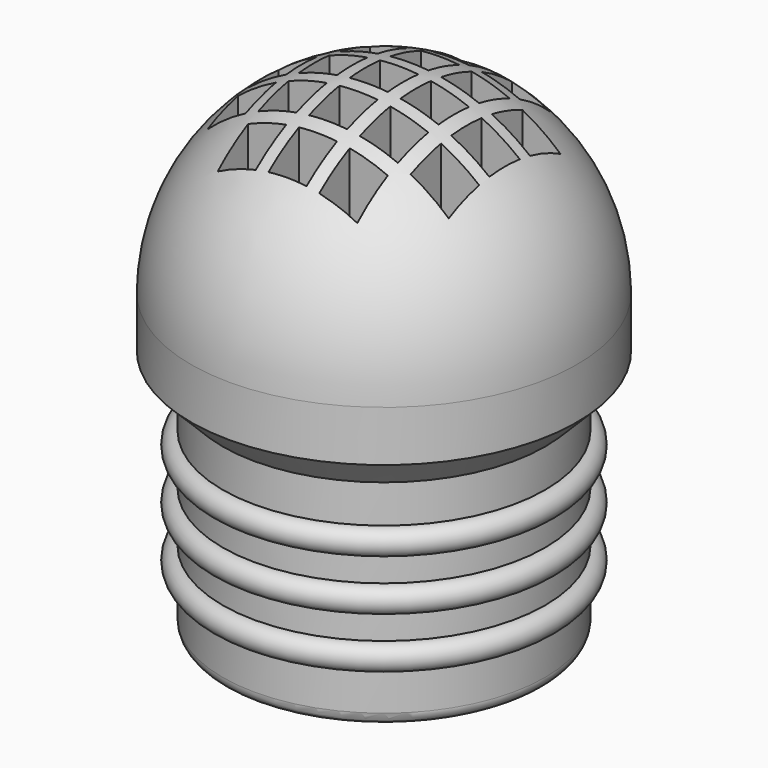
from build123d import *

# Parameters (mm, degrees)
F2_W     = 3
F2_H     = 3
F3_DEPTH = 50


with BuildPart() as f1:
    # F0 (on Right) → F1 (revolve)
    with BuildSketch(Plane.YZ):
        with BuildLine():
            Line((-11.7, 0), (0, 0))
            Line((0, 0), (0, 38.7))
            ThreePointArc((0, 38.7), (-10.748023074, 34.248023074), (-15.2, 23.5))
            Line((-15.2, 23.5), (-15.2, 19.5))
            Line((-15.2, 19.5), (-12.7, 17))
            Line((-12.7, 17), (-12.7, 14))
            ThreePointArc((-12.7, 14), (-13.7, 13), (-12.7, 12))
            Line((-12.7, 12), (-12.7, 10))
            ThreePointArc((-12.7, 10), (-13.7, 9), (-12.7, 8))
            Line((-12.7, 8), (-12.7, 6))
            ThreePointArc((-12.7, 6), (-13.7, 5), (-12.7, 4))
            Line((-12.7, 4), (-12.7, 1))
            ThreePointArc((-12.7, 1), (-12.4071067812, 0.2928932188), (-11.7, 0))
        make_face()
    revolve(axis=Axis((0, 0, 19.35), (0, 0, -1)))

    # F2 (on face) → F3 (cut)
    with BuildSketch(Plane(origin=(0, 0, 0), x_dir=(1, 0, 0), z_dir=(0, 0, -1))):
        with Locations((-8, -4)):
            Rectangle(F2_W, F2_H)
        with Locations((-8, 0)):
            Rectangle(F2_W, F2_H)
        with Locations((-8, 4)):
            Rectangle(F2_W, F2_H)
        with Locations((-4, -8)):
            Rectangle(F2_W, F2_H)
        with Locations((-4, -4)):
            Rectangle(F2_W, F2_H)
        with Locations((-4, 0)):
            Rectangle(F2_W, F2_H)
        with Locations((-4, 4)):
            Rectangle(F2_W, F2_H)
        with Locations((-4, 8)):
            Rectangle(F2_W, F2_H)
        with Locations((0, -8)):
            Rectangle(F2_W, F2_H)
        with Locations((0, -4)):
            Rectangle(F2_W, F2_H)
        Rectangle(F2_W, F2_H)
        with Locations((0, 4)):
            Rectangle(F2_W, F2_H)
        with Locations((0, 8)):
            Rectangle(F2_W, F2_H)
        with Locations((4, -8)):
            Rectangle(F2_W, F2_H)
        with Locations((4, -4)):
            Rectangle(F2_W, F2_H)
        with Locations((4, 0)):
            Rectangle(F2_W, F2_H)
        with Locations((4, 4)):
            Rectangle(F2_W, F2_H)
        with Locations((4, 8)):
            Rectangle(F2_W, F2_H)
        with Locations((8, -4)):
            Rectangle(F2_W, F2_H)
        with Locations((8, 0)):
            Rectangle(F2_W, F2_H)
        with Locations((8, 4)):
            Rectangle(F2_W, F2_H)
    extrude(amount=-F3_DEPTH, mode=Mode.SUBTRACT)


solid = f1.part
